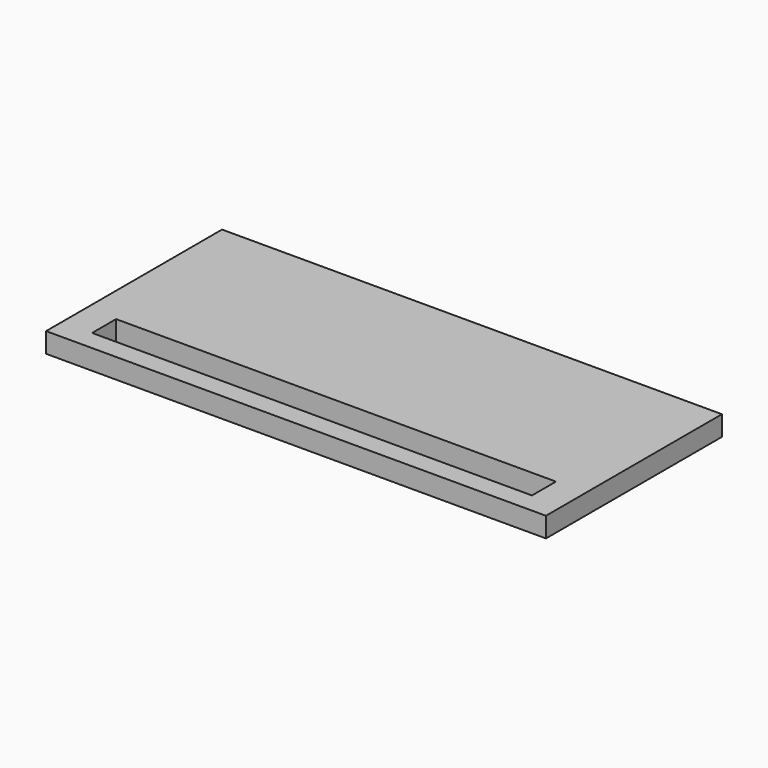
from build123d import *

# Parameters (mm, degrees)
BOX120_W     = 22
BOX120_H     = 1.5
BOX120_DEPTH = 2
BOX119_W     = 25
BOX119_H     = 11
BOX119_DEPTH = 1


with BuildPart() as longledhole001:
    # Box120 → Box120 (new body)
    with BuildSketch(Plane(origin=(1.5, 1, 0), x_dir=(1, 0, 0), z_dir=(0, 0, 1))):
        with Locations((11, 0.75)):
            Rectangle(BOX120_W, BOX120_H)
    extrude(amount=BOX120_DEPTH)


with BuildPart() as cut018:
    # Box119 → Box119 (new body)
    with BuildSketch(Plane.XY):
        with Locations((12.5, 5.5)):
            Rectangle(BOX119_W, BOX119_H)
    extrude(amount=BOX119_DEPTH)

    # Cut018: cut LongLedHole001
    add(longledhole001.part, mode=Mode.SUBTRACT)


solid = cut018.part
